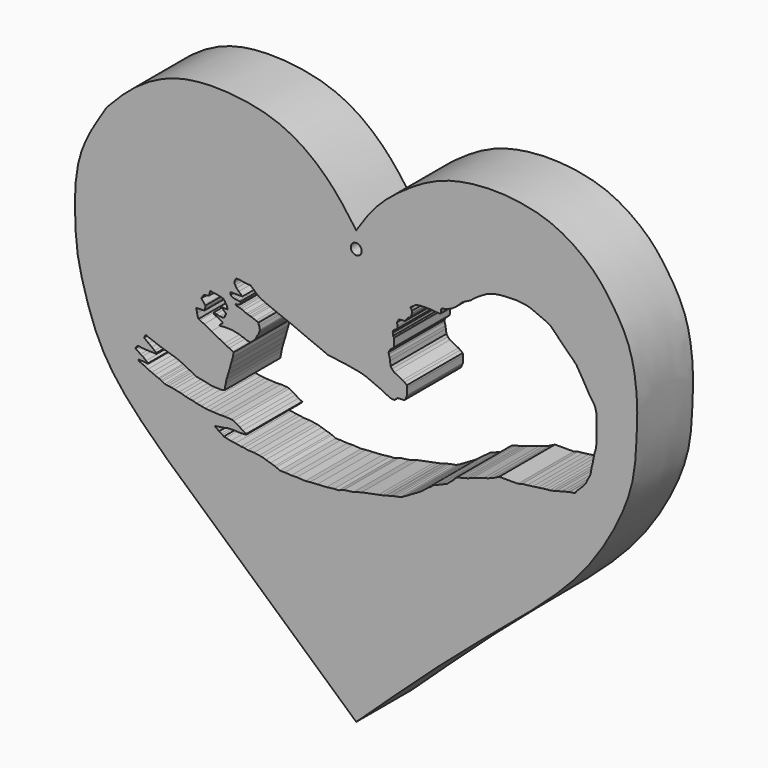
from build123d import *

# Parameters (mm, degrees)
F1_DEPTH = 25
F3_DEPTH = 30
F4_R     = 1.9581473408
F5_DEPTH = 60


with BuildPart() as f1:
    # F0 (on Front) → F1 (new body)
    with BuildSketch(Plane.XZ):
        with BuildLine():
            add(Edge.make_bspline(
                [(-91.8724909425, 46.6203503311), (-88.7343177682, 49.9052958821), (-82.1065463796, 56.8430481751), (-66.6555646044, 65.5910052502), (-45.1653570864, 66.0329062748), (-26.1537014085, 61.2648253634), (-11.5852331434, 49.4822155951), (-5.4562205494, 40.9537241876), (-2.5169854052, 36.8637926877)],
                knots=[0, 0, 0, 0, 0.1487134298, 0.3140803775, 0.4974157155, 0.6735071629, 0.8434267826, 1, 1, 1, 1], degree=3))
            add(Edge.make_bspline(
                [(-2.5169854052, -118.1495040655), (-18.9782832699, -103.3322987177), (-49.1661467338, -76.1594855145), (-83.9188415825, -45.5859171278), (-95.7696057471, -27.6840796134), (-101.0216200463, -9.9118869775), (-103.0596454173, -0.2837255866), (-103.7630742453, 19.2392576342), (-100.6192929296, 32.9200676088), (-94.8415886472, 41.9697959863), (-91.8724909425, 46.6203503311)],
                knots=[0, 0, 0, 0, 0.2074380167, 0.3804141433, 0.4986329588, 0.6055364793, 0.6879111306, 0.7996526606, 0.8970437398, 1, 1, 1, 1], degree=3))
            add(Edge.make_bspline(
                [(-2.5169854052, 36.8637926877), (-0.1796072253, 40.4203651716), (4.7398764191, 47.9058890442), (17.8107438275, 57.7119962956), (29.2207241152, 63.6242765591), (43.7535366908, 65.9016200588), (56.3298521308, 65.0449222028), (69.2677712141, 61.9719756185), (82.2231710937, 52.9891565116), (89.039716504, 43.8376736485), (96.0889261591, 32.517456314), (98.5149226421, 16.1648535714), (97.8285006517, 2.921469913), (97.1152299938, -12.6462329381), (87.3355636497, -33.2298987244), (74.8871863904, -49.5864482755), (57.364458751, -65.3878229448), (32.2098347415, -85.7715210899), (9.817451662, -106.6493381509), (-2.5169854052, -118.1495040655)],
                knots=[0, 0, 0, 0, 0.0507829041, 0.1068828605, 0.1573938843, 0.2103842091, 0.2600614013, 0.3110174271, 0.3659229966, 0.4131473669, 0.4638167826, 0.5203079047, 0.5712918902, 0.6260054283, 0.6923171913, 0.7559616774, 0.8229658768, 0.9024839722, 1, 1, 1, 1], degree=3))
        make_face()
    extrude(amount=F1_DEPTH)

    # F2 (on Front) → F3 (cut)
    with BuildSketch(Plane.XZ):
        Polygon((-43.2736054063, 2.743225079), (-47.5076921284, 2.743225079), (-47.6469367084, 2.4692072046), (-47.5814044476, 2.2515458986), (-47.5323043108, 1.9216935566), (-47.3195198143, 1.6503573482), (-47.0419451594, 1.462587039), (-46.7519871891, 1.2602900388), (-46.1518391967, 1.1389115825), (-45.6258654594, 1.0242766002), (-44.7290167212, 0.9366146405), (-44.0816655755, 0.8826687699), (-44.0344624221, 0.6736284122), (-44.0209768713, 0.4578448134), (-43.9940020442, 0.2150883811), (-44.0884083509, -0.0478978291), (-44.2839600146, -0.1153302219), (-44.7557823658, -0.2012634594), (-45.6798113883, -0.4794650013), (-45.5854050815, -0.8233700064), (-45.0274695327, -0.9824102075), (-44.3783663213, -1.1065856088), (-43.8523963094, -1.2953962432), (-42.9960042238, -1.571869012), (-41.7754799128, -2.1585305221), (-41.1888174713, -2.3271115497), (-40.4807776213, -2.5631247554), (-39.9076007307, -2.7182193007), (-38.4375788271, -3.2644213643), (-37.8913767636, -3.4667183645), (-37.6156691299, -3.7055921541), (-37.3856313527, -4.3096225709), (-37.2372791171, -4.6872440726), (-37.0552130044, -5.6852428243), (-37.1024161577, -6.1141932383), (-37.277739495, -6.6090663895), (-37.520494312, -7.2294441052), (-37.8597275671, -7.646625897), (-38.3310616016, -8.5673620924), (-38.5603308678, -8.9719565585), (-39.0121266246, -9.4776991755), (-39.2885990441, -9.841834195), (-39.8617759347, -10.3543205187), (-40.4717379984, -10.8031129515), (-40.7788567245, -10.7724005356), (-41.9764406741, -10.5166664344), (-42.7546240389, -10.1183066145), (-43.3682575822, -9.976699017), (-44.1235005856, -9.6058202907), (-45.8430238068, -9.2619154602), (-46.9354279339, -9.0596182272), (-48.621237278, -8.9989295229), (-49.9024540186, -9.0056722984), (-51.2376129627, -9.1270506382), (-51.6152344644, -9.0124160051), (-51.3589940965, -8.8438345119), (-50.7588461041, -8.2369437441), (-50.4486560822, -8.0009307712), (-50.4216849804, -7.7475183643), (-50.6897717714, -7.4778739363), (-51.2591302395, -7.2292815894), (-51.9247166812, -6.8684220314), (-53.2318279147, -6.2669892795), (-53.6809004843, -5.9542441741), (-53.7129752338, -5.7617854327), (-53.4162670374, -5.7136709802), (-52.6865310967, -5.8499956504), (-51.4435693622, -6.1707599089), (-50.0723011792, -6.1787790619), (-49.839746207, -6.0584926978), (-49.6553070843, -5.8981101029), (-49.5109632611, -5.7617854327), (-49.5270043612, -5.5372505449), (-49.4548305869, -5.2164862864), (-49.4468137622, -5.0641233101), (-49.2440192526, -4.9779480323), (-49.1990856826, -4.5286202803), (-50.264518708, -3.557594493), (-50.7635176182, -3.2878650818), (-51.1546246707, -2.8967573307), (-50.8309490979, -2.8967573307), (-49.6171675622, -3.099054331), (-48.7270615995, -3.099054331), (-48.5787093639, -2.8293249197), (-48.9293560386, -1.8448125338), (-49.3878982961, -1.2379211839), (-49.6711134911, -0.6849758793), (-50.0891916454, -0.2129494678), (-51.060218364, 0.1107261123), (-52.0042739809, 0.3130229597), (-53.4203536808, 0.5422933027), (-54.8634044826, 0.7580765523), (-55.0117567182, 0.0432937122), (-55.1196485758, -0.7928675041), (-55.8748915792, -1.0491106659), (-57.034727186, -1.2244347017), (-57.3988631368, -1.5346235596), (-57.9886674841, -2.621296022), (-56.7784830928, -4.1644857265), (-56.5761849284, -4.4881608337), (-56.6166453063, -5.283862818), (-56.6458664834, -5.8657314616), (-56.8925738335, -6.1141932383), (-59.8917193711, -6.2424992211), (-59.6511475742, -7.1085626259), (-59.5422224297, -7.8730220137), (-59.0577349067, -9.4822170213), (-58.4803596139, -9.6746757627), (-56.9947273548, -10.4132234573), (-54.4081030875, -11.8426646135), (-49.7956760228, -14.2038119957), (-48.9215962589, -14.6849583834), (-48.0475127697, -15.0698758662), (-46.8045510352, -15.7835762948), (-46.4617081335, -15.9288815358), (-46.7114578494, -17.4987195581), (-47.3017394543, -19.4563250989), (-47.8477852515, -21.4778023537), (-48.4431345199, -23.4522142562), (-49.0444622131, -25.4464529626), (-49.23434183, -26.4390124219), (-49.7154891491, -28.9188679308), (-50.4612661898, -29.1033089161), (-52.0249903202, -29.0872696787), (-54.2462840676, -29.0150977671), (-55.1045574248, -28.8434438407), (-56.8497143686, -28.4238420427), (-57.9654686153, -28.19496952), (-58.9953996241, -28.0328504741), (-59.5103614032, -27.9756337404), (-60.893137008, -27.2794775665), (-62.7050474286, -26.3735223562), (-64.4362346255, -25.4571161396), (-67.1523726127, -24.3048064065), (-69.022202702, -23.7409919491), (-71.1831450462, -23.0893976986), (-73.7675055861, -22.2120508552), (-75.3123983741, -21.6060671955), (-76.5425860882, -21.1916584522), (-77.9714203996, -20.6007802569), (-78.4594044089, -21.5540416539), (-78.2972797751, -21.8115225434), (-76.9129917026, -22.9322649539), (-75.7590904832, -23.7619280815), (-74.767306447, -24.5915930718), (-74.0425437689, -25.0207297504), (-73.9948600531, -25.3354310989), (-74.3858516216, -25.4498682916), (-75.4443928599, -25.3163576126), (-76.4075666666, -25.3735762089), (-77.9619961977, -25.2496041358), (-79.1731104255, -25.1828487962), (-80.2125781775, -25.0302664936), (-80.7656869292, -24.9921213835), (-81.3474059105, -25.5547668785), (-81.5381333232, -25.7741045207), (-81.6144272685, -26.0601956397), (-81.098387369, -26.4390124219), (-79.7834396362, -27.3285321891), (-79.0586695075, -27.7290605009), (-77.7807980776, -28.7399161607), (-76.9511312246, -29.1976630688), (-77.0083516836, -29.4265355915), (-77.2562995553, -29.4646807015), (-77.8856948018, -29.3693169951), (-78.8965523243, -29.2739532888), (-80.1839604974, -29.2071979493), (-80.5368125439, -29.2644165456), (-80.489128828, -29.531436041), (-80.22210747, -29.7221634537), (-79.2303234339, -30.2180536091), (-78.257612884, -30.5613633245), (-77.1513953805, -31.190764159), (-75.8067667484, -31.7724831402), (-74.732460407, -32.2059965834), (-73.3940675855, -32.7738039196), (-73.0030760169, -32.8787043691), (-72.3736733198, -33.1457257271), (-71.9636082649, -33.4032066166), (-71.162559092, -33.8132716715), (-70.6571266055, -34.0039990842), (-69.8171353978, -34.0818755665), (-68.6940103769, -34.1941900551), (-67.7527263761, -34.421004355), (-66.0175979137, -34.7839072347), (-64.9742484093, -34.9880419672), (-63.7607946992, -35.3849679232), (-62.4777092282, -35.6844567047), (-61.1524283886, -35.8952991664), (-59.6894733608, -36.2922251225), (-58.101902876, -36.5877593818), (-56.6458664834, -36.8663035333), (-55.171571672, -37.0137356222), (-53.6178946495, -37.0931215584), (-51.1796362698, -37.2065268457), (-49.4785271585, -37.1384844184), (-47.2217239439, -37.3085923493), (-46.4153782068, -37.480146244), (-45.2031493187, -38.1931699812), (-44.23911497, -38.7602075934), (-43.241678933, -39.5097059509), (-41.8462194502, -40.1097536087), (-41.8575592339, -40.3025448322), (-41.9823080301, -40.4499769211), (-42.4132570624, -40.4386371374), (-43.3091744781, -40.4726564884), (-44.8741950095, -40.5066795647), (-46.2124012411, -40.3932742774), (-48.5599301755, -40.5066795647), (-49.3310987949, -40.7108142972), (-50.6352819502, -40.9262850881), (-51.8600828946, -41.0850569606), (-52.7786798775, -41.2211455405), (-53.1642660499, -41.379917413), (-52.6199117303, -41.81086272), (-52.3023717105, -42.0149974525), (-52.0075112581, -42.207788676), (-51.701311022, -42.5026491284), (-51.3837710023, -42.5820313394), (-50.873439759, -42.8882315755), (-50.3857880831, -43.1490689516), (-49.9548390508, -43.5800179839), (-49.2063499987, -43.7501259148), (-47.465955416, -44.1172097495), (-45.8146347666, -44.3799227537), (-43.785482645, -44.7027459741), (-42.6514111459, -44.793471694), (-41.3925908506, -45.0769923627), (-39.1464067, -45.1291648181), (-37.2645668685, -45.4285517335), (-36.2547129677, -45.5819778469), (-34.8830148578, -45.9955893457), (-33.2741118682, -46.4959063005), (-31.7232459784, -46.9635426998), (-31.1972741038, -47.1705637989), (-29.8755988479, -47.7862171829), (-28.1223580241, -47.7862171829), (-25.7601237787, -47.9509397027), (-23.7527415156, -47.9075945914), (-20.7722298801, -48.1026768684), (-19.0817767229, -47.9090656901), (-16.4825850357, -47.7625620534), (-13.164914294, -47.5755612903), (-10.4233203456, -47.2050756216), (-8.8250219755, -47.1705637989), (-6.9715787024, -46.4647020427), (-3.4874822923, -45.9938782036), (-0.5795708857, -45.118380338), (5.4536955431, -43.9148880541), (6.7568002269, -43.6662994325), (7.8791645883, -43.4298267795), (8.4803784266, -43.2008616626), (9.4551687852, -42.9821308702), (10.1540125906, -42.7717268467), (10.9741408378, -42.5714626908), (11.9849964976, -42.3664301634), (13.0718717951, -42.1795364622), (14.1688454896, -41.7617671192), (14.6678378806, -41.4555668831), (15.1778189465, -41.128847748), (15.9330610186, -40.7242551446), (16.7624801397, -40.2589701116), (17.6525861025, -39.7060252726), (18.7247619033, -39.0991345048), (19.6890439838, -38.5259613395), (20.7303118654, -37.8906388832), (21.3740297576, -37.3858290446), (21.979926154, -36.9106791914), (22.5935596973, -36.4453941584), (22.9302886873, -36.1352078617), (23.6994512379, -35.6092341244), (24.3737753481, -35.1911522448), (25.0008963048, -34.6516929567), (25.3894788611, -34.3441438716), (26.1793211102, -34.0433418751), (26.925098151, -33.8188074529), (27.3661483079, -33.570215106), (27.9167436199, -33.3515667988), (28.9218556136, -32.9687818885), (29.8119764775, -32.6800942421), (30.0685875118, -32.4635803699), (30.5419117802, -32.0548029299), (30.9390470336, -31.6548435017), (31.6563695669, -31.092312187), (31.90380147, -30.9386294126), (32.682813704, -30.1540773362), (32.8752733767, -29.7771804035), (33.5573293269, -29.376225546), (34.06356242, -29.2397924878), (34.9305681884, -28.9852339774), (35.8316435533, -28.8046975075), (36.6573272666, -28.5622714203), (37.6059823787, -28.2837401337), (39.0693545341, -27.7264323086), (43.1192348746, -26.4390124219), (44.7076472377, -25.9726442618), (46.5549454093, -25.2691227943), (48.6643202603, -24.2080505097), (51.4768213034, -24.2080505097), (55.3767850074, -24.2080505097), (56.9599640029, -23.7432189003), (58.7365539368, -23.5803557007), (60.7855210864, -23.303468248), (62.5464241441, -23.0655083753), (64.0310049057, -22.8648893535), (65.6413882971, -22.6494167), (66.7187571526, -22.5813724101), (67.974734942, -22.33139396), (69.2477375269, -21.9576321542), (70.9715262055, -21.6060671955), (72.6136105226, -21.1239406021), (73.4097808599, -21.016350016), (73.9723882936, -20.8020876877), (75.1562565565, -20.64210549), (75.9329977619, -20.4570868115), (76.1568381866, -20.1261908947), (76.4997134313, -19.6193297296), (77.1985627389, -18.9155106476), (77.9706950243, -18.1378874455), (78.5116106272, -17.6254417747), (79.7705821841, -16.0785535753), (80.1434740424, -15.211363323), (80.4131999612, -14.6988779306), (80.7773396373, -14.0650132671), (81.0686183204, -13.4866754591), (81.4171085703, -12.6762331259), (81.5434207221, -11.8822797958), (81.9075071762, -9.9790873424), (82.2225362062, -8.9343274012), (82.4113488197, -7.7475183643), (82.7361196651, -6.0498407523), (82.9328050037, -5.3975549527), (83.2205340266, -4.4433325529), (83.4632888436, -2.9328477103), (83.6012775937, -1.9500480266), (83.6012775937, 0.1910450037), (83.4895372391, 2.1734845359), (83.4895372391, 4.8358272761), (83.4895372391, 7.1115400642), (83.1046253443, 8.7331114337), (82.7838554978, 9.5991753042), (81.0079798102, 12.1058812365), (79.8159390688, 14.2229571939), (78.4045532346, 16.6642684489), (76.8691971898, 19.1914103925), (76.280293843, 20.1367372488), (75.1431137323, 21.3370956481), (73.15954566, 23.2348348945), (70.6464870713, 25.7301483913), (69.1256523132, 27.3354761302), (66.9227540493, 29.5097697526), (65.6811530719, 30.1762939385), (63.4231357059, 31.1472415357), (61.576703007, 31.9412077024), (60.13718201, 32.5602018139), (58.330476284, 33.1049822271), (56.3945919275, 33.3157547871), (54.7325742923, 33.4769032962), (53.4859970212, 33.4066398737), (51.8284773283, 33.4066398737), (50.2160411665, 33.3157547871), (48.9742033333, 33.2019132758), (47.7858185768, 33.0413207412), (46.1074151099, 32.6312594116), (43.9521931112, 31.8111293018), (42.0258454978, 30.6953731924), (40.1376448572, 29.427036643), (38.3257307112, 28.0061159283), (36.6187207401, 27.1669141948), (35.6244091802, 26.6721045565), (34.8694893258, 25.9569182888), (34.1681578219, 25.2924998637), (33.0904945731, 24.2715571076), (31.590923667, 23.2611503452), (29.7304894775, 22.5474499166), (28.380006362, 22.2156244401), (28.046477586, 22.1705529839), (27.8620384634, 21.8979027122), (27.8620384634, 21.4648712426), (27.7548372143, 20.8346702117), (27.6139412874, 20.3674040037), (27.3087210953, 20.3261580318), (26.3063330203, 20.3903112561), (25.4964027554, 20.4865410924), (24.3737287819, 20.6053297824), (22.9302886873, 20.6053297824), (21.5591068623, 20.6053297824), (19.9439730495, 20.5142926425), (19.2831344903, 20.3524567187), (18.5885820538, 20.1838761568), (18.2042177767, 19.8197420686), (17.408516258, 19.3477161229), (17.0185549021, 19.0041076132), (16.9432330877, 18.7543109059), (17.1859897673, 18.3901749551), (17.408516258, 17.9720949382), (17.408516258, 17.6956225187), (17.408516258, 17.1426776797), (17.1960344478, 16.4380045788), (16.8806128992, 15.7044661917), (16.545381397, 15.6591646373), (16.147531569, 15.4568683356), (15.7564226538, 15.0253009051), (15.2911394835, 14.4318966195), (14.9607211351, 13.9598706737), (13.2960313931, 13.8072655662), (12.7287097275, 13.7306004763), (12.539899908, 13.4136676788), (12.2909088825, 12.9686146975), (12.090416945, 12.6397844232), (12.1306876738, 12.3417810297), (12.2507819543, 11.453083354), (12.2909088825, 10.7411721649), (12.2106550261, 10.5545353144), (11.8723195046, 10.3724682704), (11.629562825, 10.2106304839), (11.3463466987, 10.0825093687), (10.7731716707, 9.6846586093), (10.5304149911, 8.7945507839), (10.6288755788, 8.5404366372), (10.667831637, 7.8492984176), (11.0173911978, 7.4288266284), (11.0602677606, 7.1115400642), (11.0602677606, 4.7001698246), (10.8282137662, 4.1605094448), (9.7857303917, 3.3425609581), (9.2980937514, 2.7174558056), (9.0711326294, 2.1896393133), (9.1602401808, 1.5302434331), (9.4410929694, 0.6002688989), (9.5762211929, -0.399679955), (9.7857303917, -1.9500480266), (10.2989533916, -2.7198821772), (11.0367108136, -3.4576395992), (14.0779968351, -4.9779480323), (14.7641105577, -5.3975549527), (15.6076766335, -6.084005452), (15.6992322989, -6.7615173757), (15.6992322989, -7.4099912308), (15.6992322989, -9.209141454), (15.4089174239, -9.8842922357), (15.182247447, -10.4114316466), (14.9942236021, -10.8486963436), (14.6143911406, -11.0817365348), (13.9509579167, -11.1191309988), (13.2960313931, -11.1191309988), (12.7970315516, -11.1865634099), (12.346743606, -11.2468535081), (12.2106550261, -11.2468535081), (11.7797078565, -11.6324378178), (11.5188714117, -11.8365706876), (11.2466933206, -12.1710054456), (10.8497682959, -12.1710054456), (10.1004800441, -12.1710054456), (9.3795888592, -11.8610221947), (8.241401054, -11.371601373), (6.6602562794, -10.5287427258), (5.1497550175, -9.8792270963), (2.9472670367, -8.932157138), (0.9719955851, -8.0827903003), (-1.2734682532, -7.4477097951), (-3.6777020432, -7.0167621598), (-6.7396983504, -6.4724073745), (-9.3934284523, -6.1548673548), (-12.5007871538, -5.7919635437), (-14.7689320147, -4.8166611232), (-18.3299202472, -3.3650482073), (-22.2538113594, -1.7319837352), (-25.1797195524, -0.4618223757), (-28.4004844725, 0.7856575539), (-30.759356916, 1.7155972309), (-32.8460484743, 2.5548108388), (-34.842018038, 3.3940244466), (-37.0194390416, 4.3466459028), (-38.3576415479, 5.4126735777), (-39.6461933851, 6.5510380082), (-40.4627285898, 7.2768442333), (-40.8029481769, 7.2768442333), (-41.8462976813, 7.2768442333), (-43.2525463402, 7.5036589988), (-44.318575412, 7.7077923343), (-45.2031493187, 7.7077923343), (-45.5433726311, 7.7077923343), (-45.8382330835, 7.1634370834), (-46.1104102433, 6.5510380082), (-46.1104102433, 6.3695861027), (-46.1104102433, 6.0066827573), (-45.8835959435, 5.507690832), (-45.3619211912, 4.668477457), (-44.6134321392, 3.8973079063), align=None)
    extrude(amount=F3_DEPTH, mode=Mode.SUBTRACT)

    # F4 (on face) → F5 (cut)
    with BuildSketch(Plane.XZ.offset(25)):
        with Locations((-2.5169854052, 30.9291463345)):
            Circle(F4_R)
    extrude(amount=-F5_DEPTH, mode=Mode.SUBTRACT)


solid = f1.part
